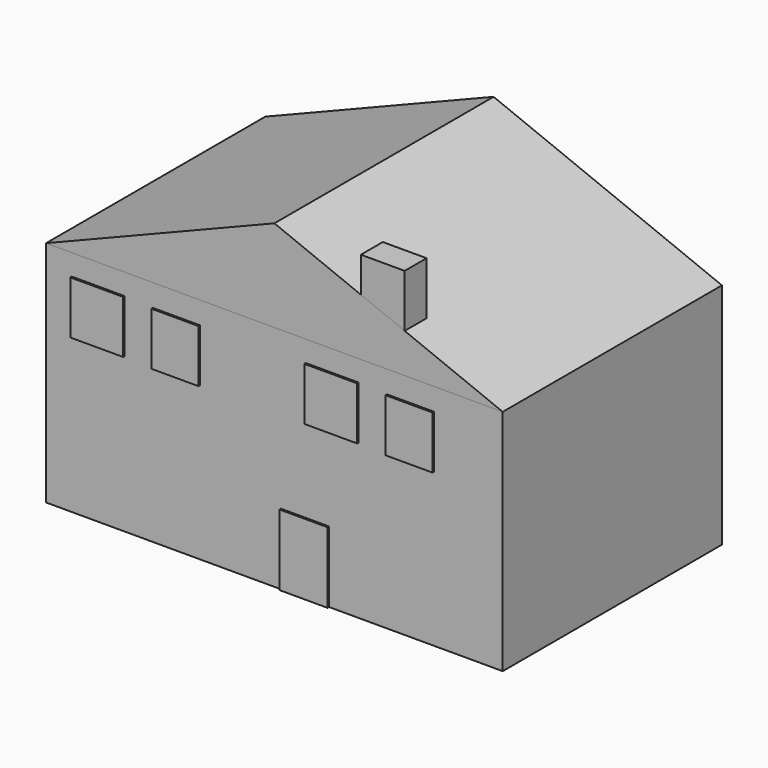
from build123d import *

# Parameters (mm, degrees)
F0_W     = 127
F0_H     = 63.5
F1_DEPTH = 76.2
F2_W     = 13.3971069008
F2_H     = 19.7356194196
F2_W_2   = 14.7041380405
F2_H_2   = 14.7041361779
F2_W_3   = 13.0703430623
F2_H_3   = 14.7041380405
F3_DEPTH = 0.508
F5_DEPTH = 76.2
F7_DEPTH = 7.62


with BuildPart() as f1:
    # F0 (on Front) → F1 (new body)
    with BuildSketch(Plane.XZ):
        with Locations((5.9152878821, 18.2254010985)):
            Rectangle(F0_W, F0_H)
    extrude(amount=F1_DEPTH)

    # F2 (on face) → F3 (join)
    with BuildSketch(Plane.XZ.offset(76.2)):
        with Locations((14.4110089168, -3.6567891917)):
            Rectangle(F2_W, F2_H)
        with Locations((-43.0985055864, 36.7629500106)):
            Rectangle(F2_W_2, F2_H_2)
        with Locations((-21.3690595701, 36.4361926913)):
            Rectangle(F2_W_3, F2_H_3)
        with Locations((22.0081503503, 36.7629500106)):
            Rectangle(F2_W_2, F2_H_2)
        with Locations((43.7375963666, 36.4361926913)):
            Rectangle(F2_W_3, F2_H_3)
    extrude(amount=F3_DEPTH)


with BuildPart() as f5:
    # F4 (on face) → F5 (new body)
    with BuildSketch(Plane.XZ.offset(76.2)):
        Polygon((69.4152878821, 49.9754010985), (5.9152878821, 75.4838436842), (-57.5847121179, 49.9754010985), align=None)
    extrude(amount=-F5_DEPTH)


with BuildPart() as f7:
    # F6 (on face) → F7 (new body)
    with BuildSketch(Plane.XZ.offset(76.2)):
        Polygon((29.9764143668, 75.6273716688), (29.9764143668, 65.818302527), (42.1461313963, 60.9296327927), (42.1461313963, 75.6273716688), align=None)
    extrude(amount=-F7_DEPTH)


solid = Compound([f1.part, f5.part, f7.part])
